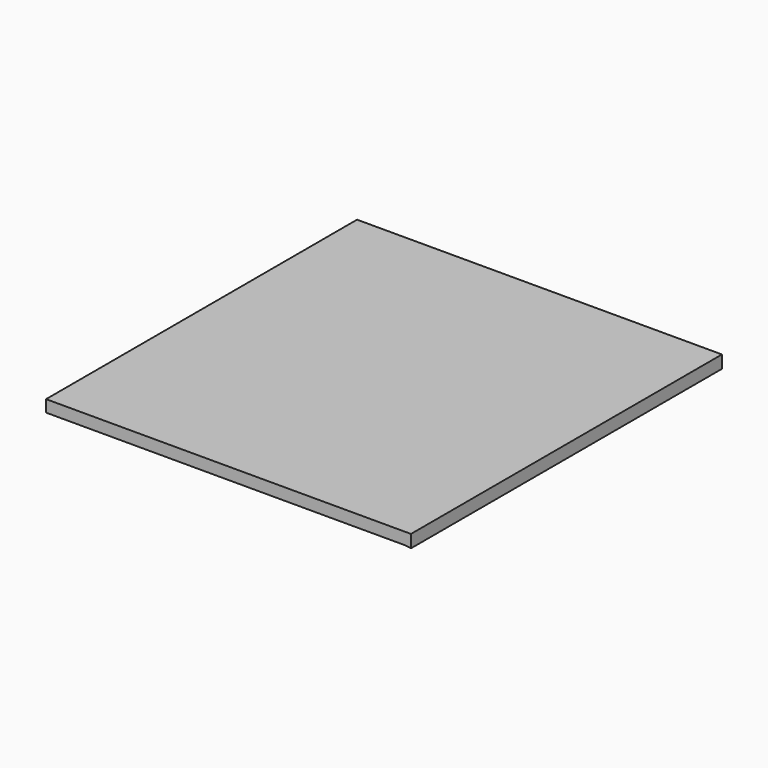
from build123d import *

# Parameters (mm, degrees)
PAD_DEPTH    = 16
POCKET_DEPTH = 1


with BuildPart() as part:
    # Sketch → Pad (new body)
    with BuildSketch(Plane.XY):
        Polygon((0, 413.879036), (0, 490), (460, 490), (460, 0), (0, 0), align=None)
    extrude(amount=-PAD_DEPTH)

    # Sketch002 (on Face7 of Pad) → Pocket (cut)
    with BuildSketch(Plane(origin=(0, 0, -16), x_dir=(1, 0, 0), z_dir=(0, 0, -1))):
        Polygon((0, 0), (0, -71.973152), (460, 0), align=None)
    extrude(amount=-POCKET_DEPTH, mode=Mode.SUBTRACT)


solid = part.part
